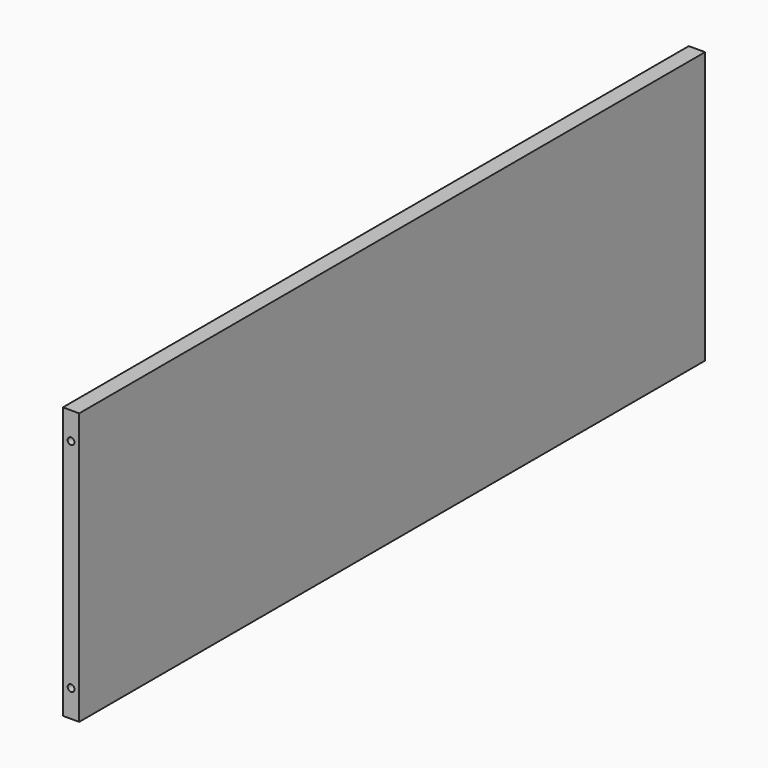
from build123d import *

# Parameters (mm, degrees)
F0_W     = 576
F0_H     = 200
F1_DEPTH = 12
F3_D     = 5


with BuildPart() as f1:
    # F0 (on Right) → F1 (new body)
    with BuildSketch(Plane.YZ):
        with Locations((288, -100)):
            Rectangle(F0_W, F0_H)
    extrude(amount=F1_DEPTH)

    # F3 (through all)
    with Locations(Plane.XZ):
        with Locations((6, -20), (6, -180)):
            Hole(F3_D / 2)


solid = f1.part
